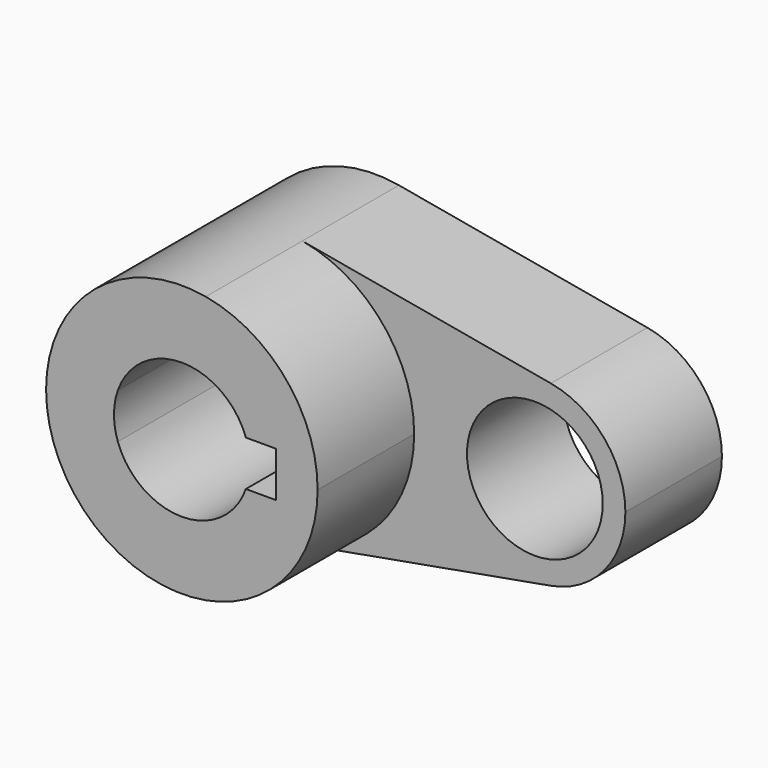
from build123d import *

# Parameters (mm, degrees)
F0_R     = 14.2875
F1_DEPTH = 25.4
F2_DEPTH = 50.8


with BuildPart() as f1:
    # F0 (on Front) → F1 (new body)
    with BuildSketch(Plane.XZ):
        with BuildLine():
            ThreePointArc((5.042647, -28.126541), (21.916025, -18.336262), (28.575, 0))
            ThreePointArc((28.575, 0), (21.916025, 18.336262), (5.042647, 28.126541))
            ThreePointArc((5.042647, 28.126541), (-28.575, 0), (5.042647, -28.126541))
        make_face()
        with BuildLine():
            ThreePointArc((-13.470384, 4.7625), (0, 14.2875), (13.470384, 4.7625))
            Line((13.470384, 4.7625), (19.772856, 4.7625))
            Line((19.772856, 4.7625), (19.772856, -4.7625))
            Line((19.772856, -4.7625), (13.470384, -4.7625))
            ThreePointArc((13.470384, -4.7625), (0, -14.2875), (-13.470384, -4.7625))
            Line((-13.470384, -4.7625), (-19.772856, -4.7625))
            Line((-19.772856, -4.7625), (-19.772856, 4.7625))
            Line((-19.772856, 4.7625), (-13.470384, 4.7625))
        make_face(mode=Mode.SUBTRACT)
        with BuildLine():
            ThreePointArc((-13.470384, -4.7625), (-14.2875, 0), (-13.470384, 4.7625))
            Line((-13.470384, 4.7625), (-19.772856, 4.7625))
            Line((-19.772856, 4.7625), (-19.772856, -4.7625))
            Line((-19.772856, -4.7625), (-13.470384, -4.7625))
        make_face()
        with BuildLine():
            ThreePointArc((13.470384, 4.7625), (14.081739, 2.416045), (14.2875, 0))
            ThreePointArc((14.2875, 0), (14.081739, -2.416045), (13.470384, -4.7625))
            Line((13.470384, -4.7625), (19.772856, -4.7625))
            Line((19.772856, -4.7625), (19.772856, 4.7625))
            Line((19.772856, 4.7625), (13.470384, 4.7625))
        make_face()
        with BuildLine():
            ThreePointArc((5.042647, 28.126541), (21.916025, 18.336262), (28.575, 0))
            ThreePointArc((28.575, 0), (21.916025, -18.336262), (5.042647, -28.126541))
            Line((5.042647, -28.126541), (57.336765, -18.751028))
            ThreePointArc((57.336765, -18.751028), (34.925, 0), (57.336765, 18.751028))
            Line((57.336765, 18.751028), (5.042647, 28.126541))
        make_face()
        with BuildLine():
            ThreePointArc((73.025, 0), (68.585683, 12.224174), (57.336765, 18.751028))
            ThreePointArc((57.336765, 18.751028), (34.925, 0), (57.336765, -18.751028))
            ThreePointArc((57.336765, -18.751028), (68.585683, -12.224174), (73.025, 0))
        make_face()
        with Locations((53.975, 0)):
            Circle(F0_R, mode=Mode.SUBTRACT)
    extrude(amount=F1_DEPTH)

    # F0 (on Front) → F2 (join)
    with BuildSketch(Plane.XZ):
        with BuildLine():
            ThreePointArc((5.042647, -28.126541), (21.916025, -18.336262), (28.575, 0))
            ThreePointArc((28.575, 0), (21.916025, 18.336262), (5.042647, 28.126541))
            ThreePointArc((5.042647, 28.126541), (-28.575, 0), (5.042647, -28.126541))
        make_face()
        with BuildLine():
            ThreePointArc((-13.470384, 4.7625), (0, 14.2875), (13.470384, 4.7625))
            Line((13.470384, 4.7625), (19.772856, 4.7625))
            Line((19.772856, 4.7625), (19.772856, -4.7625))
            Line((19.772856, -4.7625), (13.470384, -4.7625))
            ThreePointArc((13.470384, -4.7625), (0, -14.2875), (-13.470384, -4.7625))
            Line((-13.470384, -4.7625), (-19.772856, -4.7625))
            Line((-19.772856, -4.7625), (-19.772856, 4.7625))
            Line((-19.772856, 4.7625), (-13.470384, 4.7625))
        make_face(mode=Mode.SUBTRACT)
        with BuildLine():
            ThreePointArc((-13.470384, -4.7625), (-14.2875, 0), (-13.470384, 4.7625))
            Line((-13.470384, 4.7625), (-19.772856, 4.7625))
            Line((-19.772856, 4.7625), (-19.772856, -4.7625))
            Line((-19.772856, -4.7625), (-13.470384, -4.7625))
        make_face()
    extrude(amount=F2_DEPTH)


solid = f1.part
